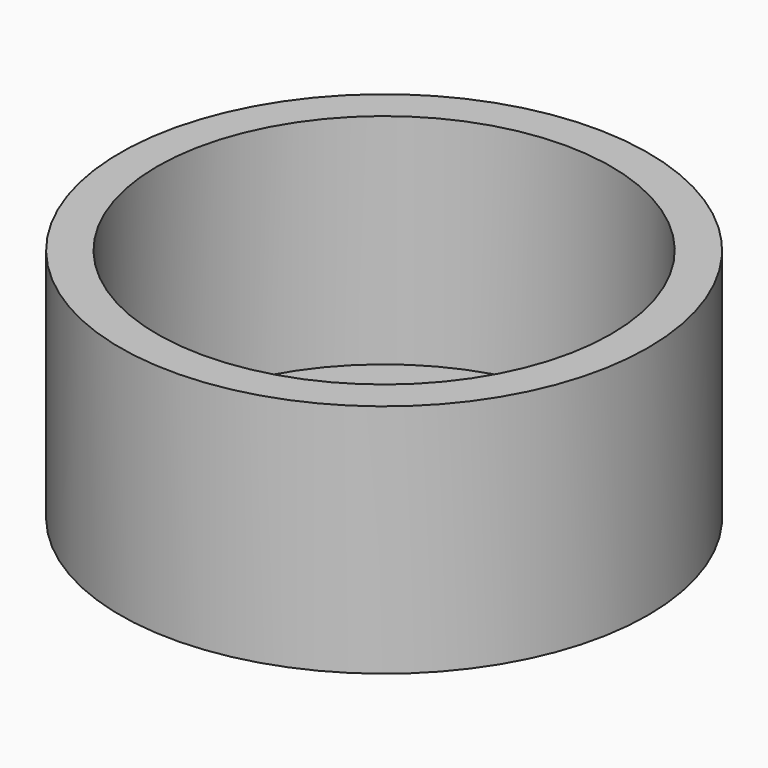
from build123d import *

# Parameters (mm, degrees)
CYLINDER081_R     = 13.5
CYLINDER081_DEPTH = 20
CYLINDER080_R     = 15.7
CYLINDER080_DEPTH = 14
CYLINDER083_R     = 11
CYLINDER083_DEPTH = 1
CYLINDER082_R     = 15
CYLINDER082_DEPTH = 1


with BuildPart() as internal_border:
    # Cylinder081 → Cylinder081 (new body)
    with BuildSketch(Plane.XY):
        Circle(CYLINDER081_R)
    extrude(amount=CYLINDER081_DEPTH)


with BuildPart() as adapter_tube_cut:
    # Cylinder080 → Cylinder080 (new body)
    with BuildSketch(Plane.XY):
        Circle(CYLINDER080_R)
    extrude(amount=CYLINDER080_DEPTH)

    # Cut023016: cut internal border
    add(internal_border.part, mode=Mode.SUBTRACT)


with BuildPart() as top_plate_hole:
    # Cylinder083 → Cylinder083 (new body)
    with BuildSketch(Plane.XY):
        Circle(CYLINDER083_R)
    extrude(amount=CYLINDER083_DEPTH)


with BuildPart() as eyepiece_adapter_fusion:
    # Cylinder082 → Cylinder082 (new body)
    with BuildSketch(Plane.XY):
        Circle(CYLINDER082_R)
    extrude(amount=CYLINDER082_DEPTH)

    # Cut023015: cut top plate hole
    add(top_plate_hole.part, mode=Mode.SUBTRACT)

    # Fusion057: union adapter tube cut
    add(adapter_tube_cut.part)


solid = eyepiece_adapter_fusion.part
